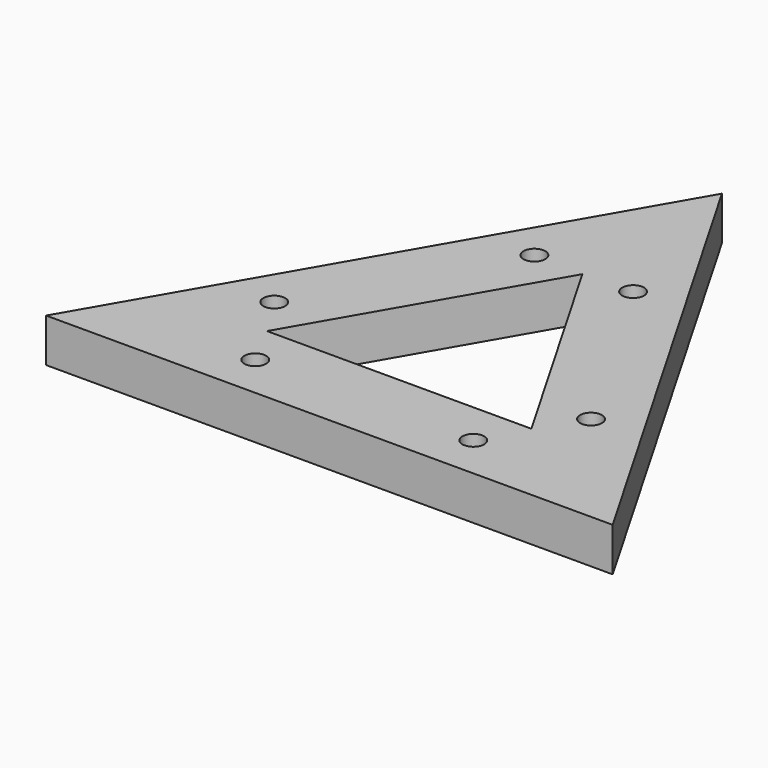
from build123d import *

# Parameters (mm, degrees)
PAD007_DEPTH       = 10
SKETCH012_R        = 2.5
POCKET003_DEPTH    = 354.275599702
POLARPATTERN_COUNT = 3


with BuildPart() as part:
    # Sketch011 → Pad007 (new body)
    with BuildSketch(Plane.XY):
        Polygon((0, 75), (-64.9519052838, -37.5), (64.9519052838, -37.5), align=None)
        Polygon((0, 35), (-30.3108891325, -17.5), (30.3108891325, -17.5), align=None, mode=Mode.SUBTRACT)
    extrude(amount=PAD007_DEPTH)

    # Sketch012 → Pocket003 (cut, through all)
    with BuildSketch(Plane.XY):
        with Locations((11.3156986041, 35.4006350946)):
            Circle(SKETCH012_R)
        with Locations((36.3156986041, -7.9006350946)):
            Circle(SKETCH012_R)
    pocket003 = extrude(amount=POCKET003_DEPTH, mode=Mode.SUBTRACT)

    # PolarPattern: Pocket003 ×3 about axis
    polarpattern_axis = Axis((0, 0, 0), (0, 0, 1))
    for i in range(1, POLARPATTERN_COUNT):
        add(pocket003.rotate(polarpattern_axis, i * 360 / POLARPATTERN_COUNT), mode=Mode.SUBTRACT)


solid = part.part
